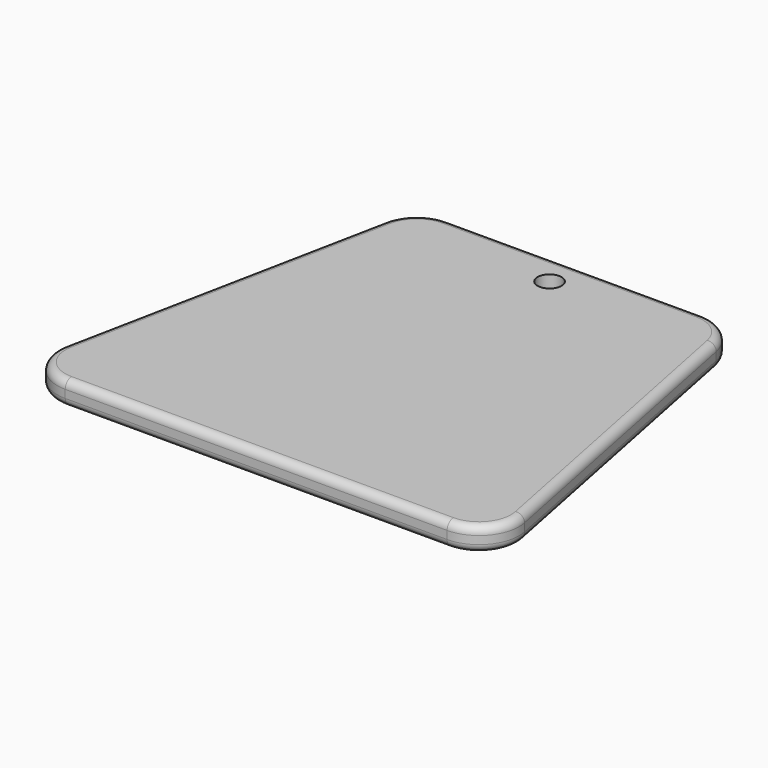
from build123d import *

# Parameters (mm, degrees)
F0_R     = 1.5
F1_DEPTH = 3
F2_R     = 5
F3_R     = 1


with BuildPart() as f1:
    # F0 (on Top) → F1 (new body)
    with BuildSketch(Plane.XY):
        Polygon((-30, 0), (0, 0), (30, 0), (20, 50), (0, 50), (-20, 50), align=None)
        with Locations((0, 45.908775)):
            Circle(F0_R, mode=Mode.SUBTRACT)
    extrude(amount=F1_DEPTH)

    # F2
    f2_edges = [f1.edges().sort_by_distance(p)[0] for p in [
        (-20, 50, 1.5),
        (20, 50, 1.5),
        (30, 0, 1.5),
        (-30, 0, 1.5),
    ]]
    fillet(f2_edges, radius=F2_R)

    # F3
    f3_edges = [f1.edges().sort_by_distance(p)[0] for p in [
        (24.803884, 25.980581, 3),
        (24.803884, 25.980581, 0),
    ]]
    fillet(f3_edges, radius=F3_R)


solid = f1.part
